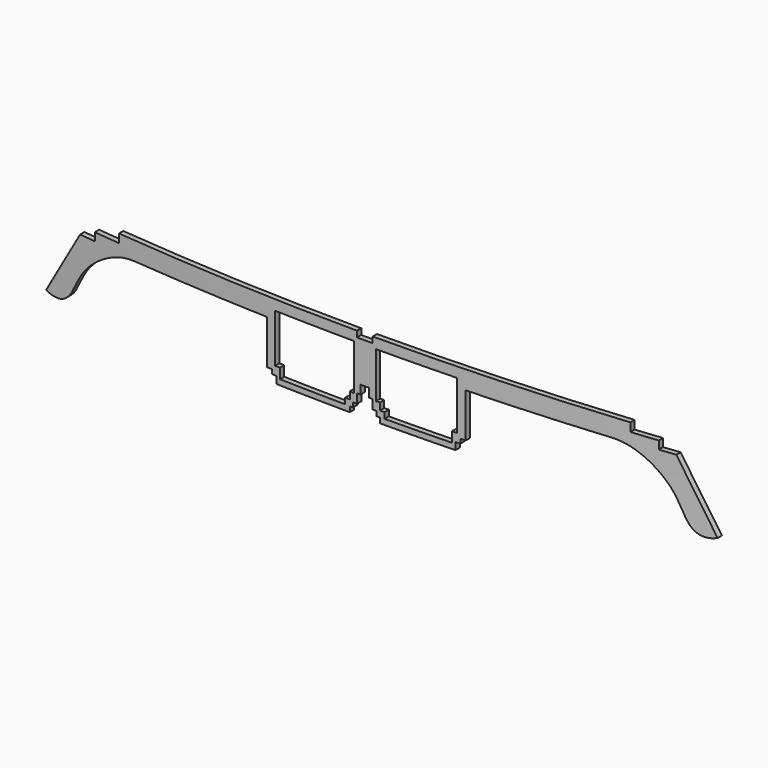
from build123d import *

# Parameters (mm, degrees)
F0_R     = 1000
F0_R_2   = 998
F1_DEPTH = 25
F3_DEPTH = 25


with BuildPart() as f1:
    # F0 (on Top) → F1 (new body, symmetric)
    with BuildSketch(Plane.XY):
        with Locations((0, 1000)):
            Circle(F0_R)
        with Locations((0, 1000)):
            Circle(F0_R_2, mode=Mode.SUBTRACT)
    extrude(amount=F1_DEPTH, both=True)

    # F2 (on Front) → F3 (intersect)
    with BuildSketch(Plane.XZ):
        with BuildLine():
            Line((-1.616309979, 0), (0, 0))
            Line((0, 0), (1.616309979, 0))
            Line((1.616309979, 0), (1.616309979, -3.2897594204))
            Line((1.616309979, -3.2897594204), (2.9510622844, -3.2897594204))
            Line((2.9510622844, -3.2897594204), (2.9510622844, -6.7660715715))
            Line((2.9510622844, -6.7660715715), (4.4573904015, -6.7660715715))
            Line((4.4573904015, -6.7660715715), (4.4573904015, -8.4873163426))
            Line((4.4573904015, -8.4873163426), (5.6625748985, -8.4873163426))
            Line((5.6625748985, -8.4873163426), (5.6625748985, -10.4484493197))
            Line((5.6625748985, -10.4484493197), (33.6209498346, -10.4484493197))
            Line((33.6209498346, -10.4484493197), (33.6209498346, -7.7543510409))
            Line((33.6209498346, -7.7543510409), (35.3727713227, -7.7543510409))
            Line((35.3727713227, -7.7543510409), (35.3727713227, -6.1156815202))
            Line((35.3727713227, -6.1156815202), (37.3309366405, -6.1156815202))
            Line((37.3309366405, -6.1156815202), (37.3309366405, 10.4968165694))
            Line((37.3309366405, 10.4968165694), (39.1029454768, 10.4968165694))
            Line((39.1029454768, 10.4968165694), (89.8619368672, 10.4968165694))
            add(Edge.make_bspline(
                [(126.191938709, -12.4427201226), (120.2694493498, -14.7278444711), (114.6684140146, -9.6957288454), (111.4944007362, 1.103961054), (98.1648231668, 10.4968165694), (89.8619368672, 10.4968165694)],
                knots=[0, 0, 0, 0, 0.2916301086, 0.5812201323, 1, 1, 1, 1], degree=3))
            Line((126.191938709, -12.4427201226), (112.0467338183, 11.2148681656))
            Line((112.0467338183, 11.2148681656), (105.9674322605, 11.2148681656))
            Line((105.9674322605, 11.2148681656), (105.9674322605, 14.2248952761))
            Line((105.9674322605, 14.2248952761), (96.1012393236, 14.2248952761))
            Line((96.1012393236, 14.2248952761), (96.1012393236, 17.4190327525))
            Line((96.1012393236, 17.4190327525), (39.1029454768, 17.4190327525))
            Line((39.1029454768, 17.4190327525), (2.9510622844, 17.4190327525))
            Line((2.9510622844, 17.4190327525), (2.9510622844, 15.192626947))
            Line((2.9510622844, 15.192626947), (0, 15.192626947))
            Line((0, 15.192626947), (-2.9510622844, 15.192626947))
            Line((-2.9510622844, 15.192626947), (-2.9510622844, 17.4190327525))
            Line((-2.9510622844, 17.4190327525), (-39.1029454768, 17.4190327525))
            Line((-39.1029454768, 17.4190327525), (-39.1029454768, 10.4968165694))
            Line((-39.1029454768, 10.4968165694), (-37.3309366405, 10.4968165694))
            Line((-37.3309366405, 10.4968165694), (-37.3309366405, -6.1156815202))
            Line((-37.3309366405, -6.1156815202), (-35.3727713227, -6.1156815202))
            Line((-35.3727713227, -6.1156815202), (-35.3727713227, -7.7543510409))
            Line((-35.3727713227, -7.7543510409), (-33.6209498346, -7.7543510409))
            Line((-33.6209498346, -7.7543510409), (-33.6209498346, -10.4484493197))
            Line((-33.6209498346, -10.4484493197), (-5.6625748985, -10.4484493197))
            Line((-5.6625748985, -10.4484493197), (-5.6625748985, -8.4873163426))
            Line((-5.6625748985, -8.4873163426), (-4.4573904015, -8.4873163426))
            Line((-4.4573904015, -8.4873163426), (-4.4573904015, -6.7660715715))
            Line((-4.4573904015, -6.7660715715), (-2.9510622844, -6.7660715715))
            Line((-2.9510622844, -6.7660715715), (-2.9510622844, -3.2897594204))
            Line((-2.9510622844, -3.2897594204), (-1.616309979, -3.2897594204))
            Line((-1.616309979, -3.2897594204), (-1.616309979, 0))
        make_face()
        Polygon((-5.6740404107, -6.1866864562), (-7.4121118523, -6.1866864562), (-7.4121118523, -8.3883497864), (-32.3244668543, -8.3883497864), (-32.3244668543, -4.5644077472), (-34.1784097254, -4.5644077472), (-34.1784097254, 13.6282863095), (-4.1097765788, 13.6282863095), (-4.1097765788, -3.5880359381), (-5.6740404107, -3.5300969637), align=None, mode=Mode.SUBTRACT)
        Polygon((5.6740404107, -3.5300969637), (4.1097765788, -3.5880359381), (4.1097765788, 13.6282863095), (34.1784097254, 13.6282863095), (34.1784097254, -4.5644077472), (32.3244668543, -4.5644077472), (32.3244668543, -8.3883497864), (7.4121118523, -8.3883497864), (7.4121118523, -6.1866864562), (5.6740404107, -6.1866864562), align=None, mode=Mode.SUBTRACT)
        with BuildLine():
            Line((-89.8619368672, 10.4968165694), (-39.1029454768, 10.4968165694))
            Line((-39.1029454768, 10.4968165694), (-39.1029454768, 17.4190327525))
            Line((-39.1029454768, 17.4190327525), (-96.1012393236, 17.4190327525))
            Line((-96.1012393236, 17.4190327525), (-96.1012393236, 14.2248952761))
            Line((-96.1012393236, 14.2248952761), (-105.9674322605, 14.2248952761))
            Line((-105.9674322605, 14.2248952761), (-105.9674322605, 11.2148681656))
            Line((-105.9674322605, 11.2148681656), (-112.0467338183, 11.2148681656))
            Line((-112.0467338183, 11.2148681656), (-126.191938709, -12.4427201226))
            add(Edge.make_bspline(
                [(-126.191938709, -12.4427201226), (-120.2694493498, -14.7278444711), (-114.6684140146, -9.6957288454), (-111.4944007362, 1.103961054), (-98.1648231668, 10.4968165694), (-89.8619368672, 10.4968165694)],
                knots=[0, 0, 0, 0, 0.2916301086, 0.5812201323, 1, 1, 1, 1], degree=3))
        make_face()
    extrude(amount=-F3_DEPTH, mode=Mode.INTERSECT)


solid = f1.part
